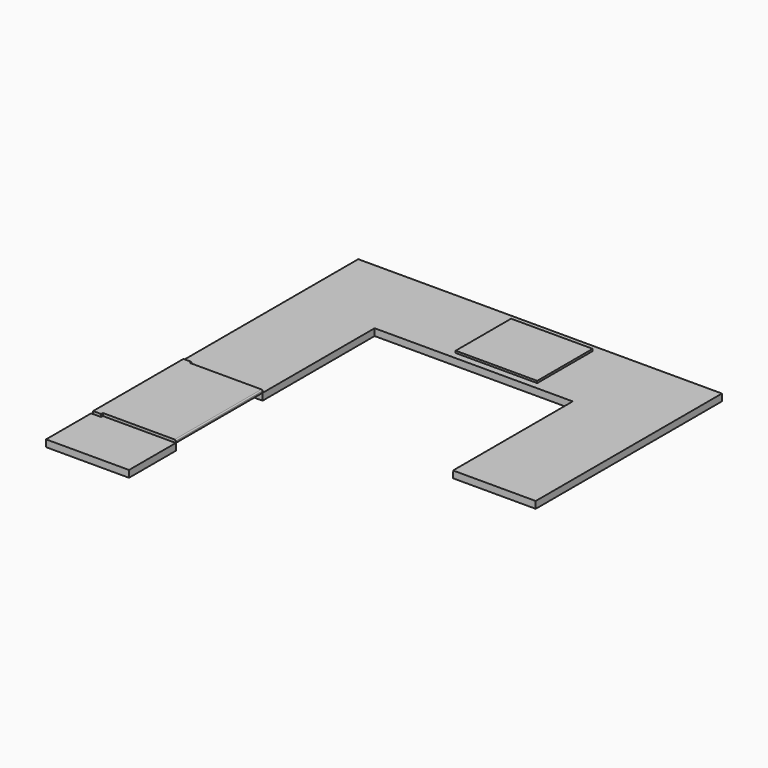
from build123d import *

# Parameters (mm, degrees)
F1_DEPTH = 50.8
F2_W     = 600
F2_H     = 510
F3_DEPTH = 15
F5_DEPTH = 20
F6_R     = 8
F8_DEPTH = 7


with BuildPart() as f1:
    # F0 (on Top) → F1 (new body)
    with BuildSketch(Plane.XY):
        Polygon((610, 1228), (610, 2258), (2067, 2258), (2067, 1158), (2675, 1158), (2675, 2870), (0, 2870), (0, 1244), (73.668413, 1244), (73.668413, 1228), align=None)
        Polygon((0, 414), (0, 0), (610, 0), (610, 430), (73.668413, 430), (73.668413, 414), align=None)
    extrude(amount=-F1_DEPTH)

    # F7 (on face) → F8 (cut)
    with BuildSketch(Plane.XY):
        Polygon((2076.880734, 1152.361907), (2062.746637, 1166.496004), (2060.033986, 1152.361907), align=None)
    extrude(amount=-F8_DEPTH, mode=Mode.SUBTRACT)


with BuildPart() as f3:
    # F2 (on face) → F3 (new body)
    with BuildSketch(Plane.XY):
        with Locations((1466, 2563)):
            Rectangle(F2_W, F2_H)
    extrude(amount=F3_DEPTH)


with BuildPart() as f5:
    # F4 (on face) → F5 (new body)
    with BuildSketch(Plane.XY):
        Polygon((610, 430), (610, 1228), (73.668413, 1228), (73.668413, 1244), (15, 1244), (15, 414), (73.668413, 414), (73.668413, 430), align=None)
    extrude(amount=F5_DEPTH)

    # F6
    f6_edges = [f5.edges().sort_by_distance(p)[0] for p in [
        (610, 829, 20),
    ]]
    fillet(f6_edges, radius=F6_R)


solid = Compound([f1.part, f3.part, f5.part])
